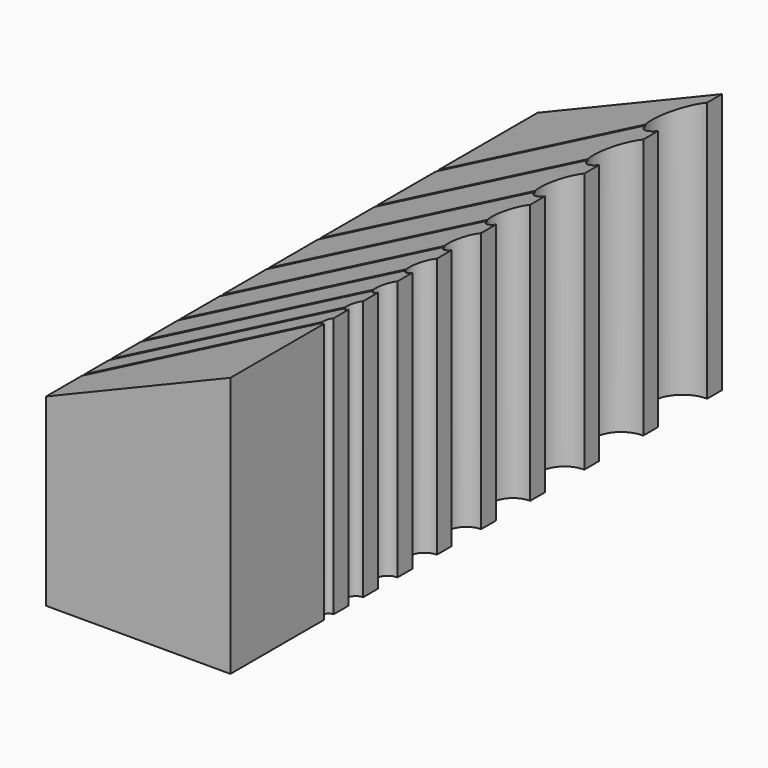
from build123d import *

# Parameters (mm, degrees)
F1_DEPTH  = 100
F8_R      = 0.25
F9_DEPTH  = 76.7908446712
F3_R      = 5
F3_R_2    = 4.5
F3_R_3    = 4
F3_R_4    = 3.5
F3_R_5    = 3
F3_R_6    = 2.5
F3_R_7    = 2
F3_R_8    = 1.5
F3_R_9    = 1
F10_DEPTH = 42.4274068712


with BuildPart() as f1:
    # F0 (on Front) → F1 (new body)
    with BuildSketch(Plane.XZ):
        Polygon((0, 0), (0, 42.4264068712), (-30, 30), (-30, 0), align=None)
    extrude(amount=F1_DEPTH)

    # F8 (on line) → F9 (cut, through all)
    with BuildSketch(Plane(origin=(13.0839062865, 5.4195314327, 5.4195314327), x_dir=(-0.3302007759, 0.9339488311, -0.1367736397), z_dir=(0.8628562095, 0.3574067443, 0.3574067443))):
        with Locations((-13.2744047348, 39.1968889463)):
            Circle(F8_R)
        with Locations((-24.9487651235, 39.1968889463)):
            Circle(F8_R)
        with Locations((-35.6891766811, 39.1968889463)):
            Circle(F8_R)
        with Locations((-45.4956394075, 39.1968889463)):
            Circle(F8_R)
        with Locations((-54.3681533029, 39.1968889463)):
            Circle(F8_R)
        with Locations((-62.3067183672, 39.1968889463)):
            Circle(F8_R)
        with Locations((-69.3113346005, 39.1968889463)):
            Circle(F8_R)
        with Locations((-75.3820020026, 39.1968889463)):
            Circle(F8_R)
        with Locations((-80.5187205736, 39.1968889463)):
            Circle(F8_R)
    extrude(amount=-F9_DEPTH, mode=Mode.SUBTRACT)

    # F3 (on plane+point) → F10 (cut, through all)
    with BuildSketch(Plane.XY.offset(42.4264068712)):
        with Locations((0, -8)):
            Circle(F3_R)
        with Locations((0, -20.5)):
            Circle(F3_R_2)
        with Locations((0, -32)):
            Circle(F3_R_3)
        with Locations((0, -42.5)):
            Circle(F3_R_4)
        with Locations((0, -52)):
            Circle(F3_R_5)
        with Locations((0, -60.5)):
            Circle(F3_R_6)
        with Locations((0, -68)):
            Circle(F3_R_7)
        with Locations((0, -74.5)):
            Circle(F3_R_8)
        with Locations((0, -80)):
            Circle(F3_R_9)
    extrude(amount=-F10_DEPTH, mode=Mode.SUBTRACT)


solid = f1.part
